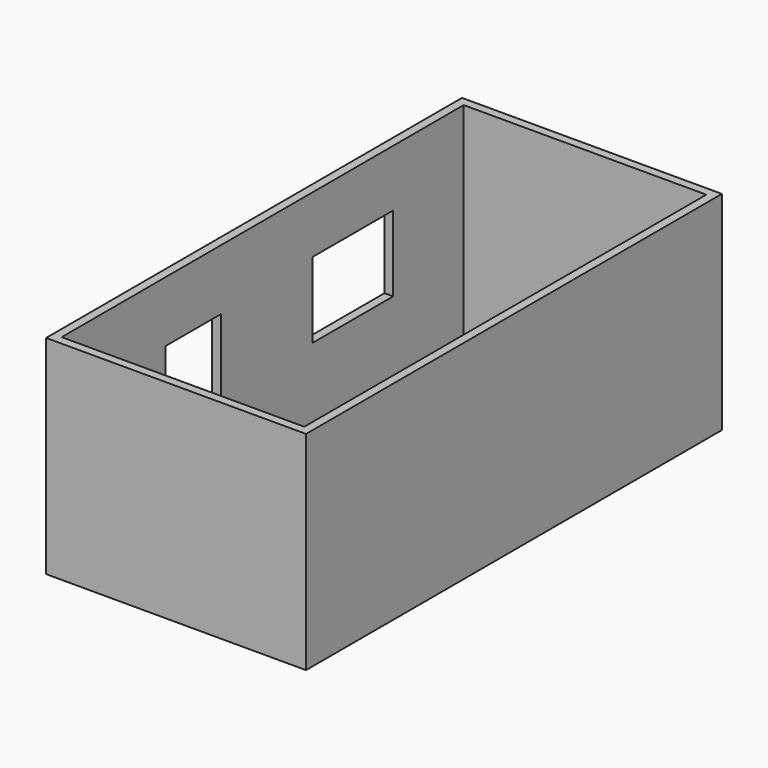
from build123d import *

# Parameters (mm, degrees)
F0_W     = 3048
F0_H     = 6096
F0_W_2   = 2844.8
F0_H_2   = 5892.8
F1_DEPTH = 2438.4
F2_W     = 1184.048891
F2_H     = 886.798144
F2_W_2   = 812.8
F2_H_2   = 1727.2
F3_DEPTH = 101.6


with BuildPart() as f1:
    # F0 (on Top) → F1 (new body)
    with BuildSketch(Plane.XY):
        with Locations((524.279082, 1790.606042)):
            Rectangle(F0_W, F0_H)
        with Locations((524.279082, 1790.606042)):
            Rectangle(F0_W_2, F0_H_2, mode=Mode.SUBTRACT)
    extrude(amount=F1_DEPTH)

    # F2 (on face) → F3 (cut, through all)
    with BuildSketch(Plane(origin=(-999.720918, 0, 0), x_dir=(0, -1, 0), z_dir=(-1, 0, 0))):
        with Locations((-3110.894799, 1327.248335)):
            Rectangle(F2_W, F2_H)
        with Locations((-769.88777, 863.6)):
            Rectangle(F2_W_2, F2_H_2)
    extrude(amount=-F3_DEPTH, mode=Mode.SUBTRACT)


solid = f1.part
